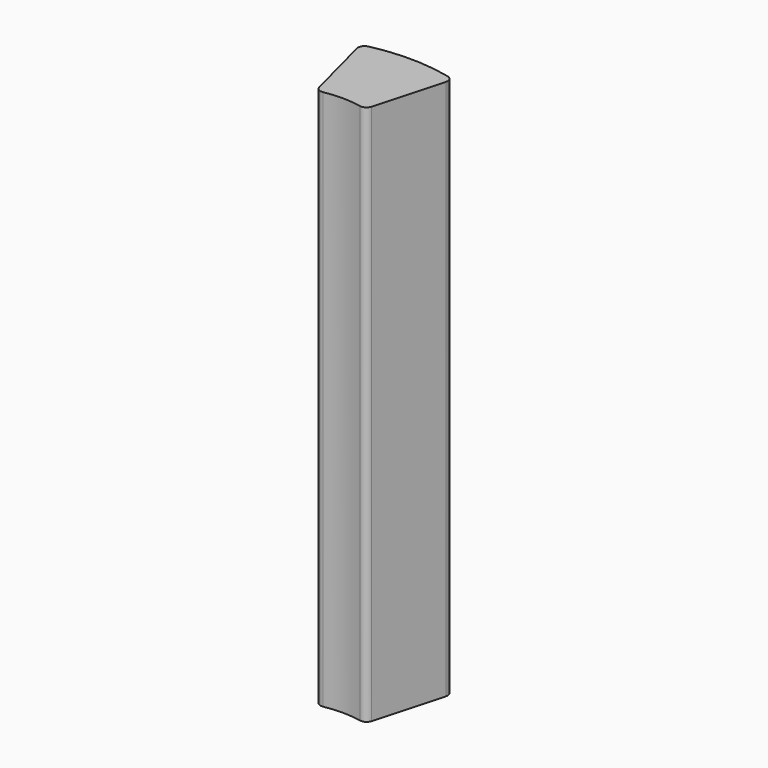
from build123d import *

# Parameters (mm, degrees)
F1_DEPTH = 254


with BuildPart() as f1:
    # F0 (on Top) → F1 (new body)
    with BuildSketch(Plane.XY):
        with BuildLine():
            ThreePointArc((21.700977, 78.367035), (21.37286, 80.832456), (19.368418, 82.30493))
            ThreePointArc((19.368418, 82.30493), (0.70574, 84.550216), (-17.991817, 82.616775))
            ThreePointArc((-17.991817, 82.616775), (-20.020646, 81.177904), (-20.389885, 78.718196))
            Line((-20.389885, 78.718196), (-11.971897, 46.219295))
            ThreePointArc((-11.971897, 46.219295), (-10.598702, 44.33415), (-8.307994, 43.895868))
            ThreePointArc((-8.307994, 43.895868), (0.372814, 44.673606), (9.039433, 43.751099))
            ThreePointArc((9.039433, 43.751099), (11.337197, 44.151099), (12.741702, 46.01311))
            Line((12.741702, 46.01311), (21.700977, 78.367035))
        make_face()
    extrude(amount=F1_DEPTH)


solid = f1.part
